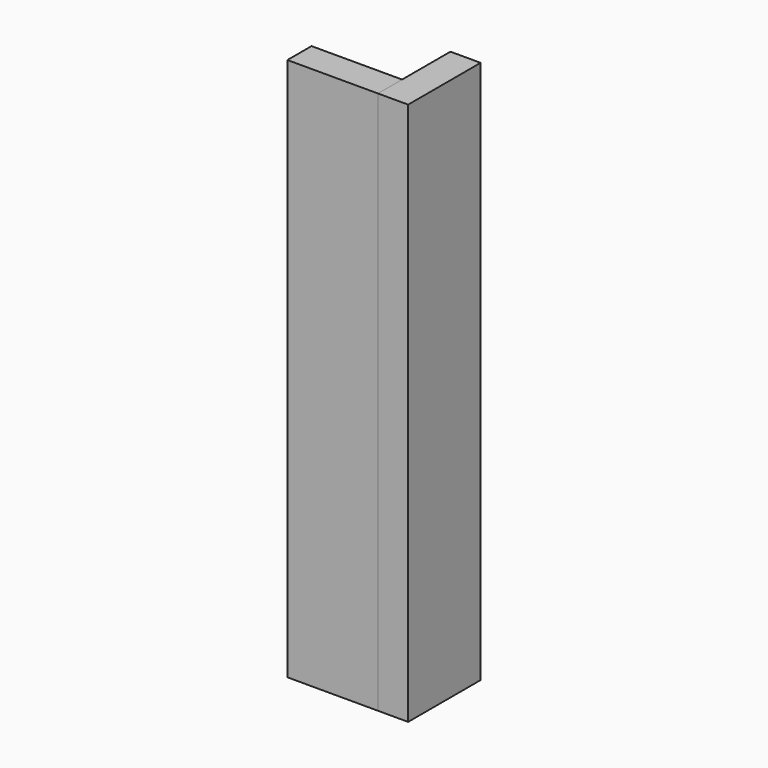
from build123d import *

# Parameters (mm, degrees)
F0_W     = 152.4
F0_H     = 50.8
F1_DEPTH = 914.4
F2_DEPTH = 914.4


with BuildPart() as f1:
    # F0 (on Top) → F1 (new body)
    with BuildSketch(Plane.XY):
        with Locations((-76.2, -25.4)):
            Rectangle(F0_W, F0_H)
    extrude(amount=-F1_DEPTH)


with BuildPart() as f2:
    # F0 (on Top) → F2 (new body)
    with BuildSketch(Plane.XY):
        Polygon((0, 101.6), (0, 0), (0, -50.8), (50.8, -50.8), (50.8, 101.6), align=None)
    extrude(amount=-F2_DEPTH)


solid = Compound([f1.part, f2.part])
